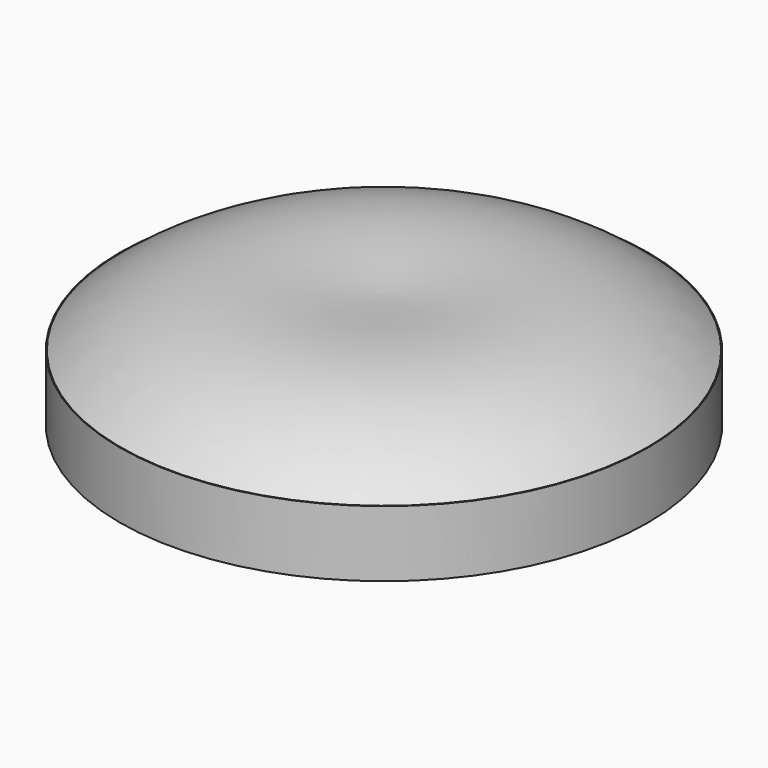
from build123d import *

# Parameters (mm, degrees)
SKETCH069_R     = 3
PAD040_DEPTH    = 0.5
SKETCH070_R     = 3
PAD041_DEPTH    = 1.5
SKETCH072_R     = 8
PAD049_DEPTH    = 2
SKETCH071_R     = 2
POCKET046_DEPTH = 4


with BuildPart() as part:
    # Sketch069 → Pad040 (new body)
    with BuildSketch(Plane.XY.offset(32)):
        with Locations((5.5, -22.5)):
            Circle(SKETCH069_R)
    extrude(amount=PAD040_DEPTH)

    # Sketch070 → Pad041 (join)
    with BuildSketch(Plane.XY.offset(32)):
        with Locations((5.5, -22.5)):
            Circle(SKETCH070_R)
    extrude(amount=-PAD041_DEPTH)

    # Sketch072 → Pad049 (join)
    with BuildSketch(Plane.XY.offset(32.5)):
        with Locations((5.5, -22.5)):
            Circle(SKETCH072_R)
    extrude(amount=PAD049_DEPTH)

    # Sketch094 → Revolution (revolve)
    with BuildSketch(Plane(origin=(5.5, -22.5, 18), x_dir=(1, 0, 0), z_dir=(0, -1, 0))):
        with BuildLine():
            Line((0, 18), (0, 16.48024))
            Line((0, 16.48024), (8, 16.48024))
            add(Edge.make_bspline(
                [(0, 18), (2, 18), (5, 19), (8, 16.48024)],
                knots=[0, 0, 0, 0, 1, 1, 1, 1], degree=3))
        make_face()
    revolve(axis=Axis((5.5, -22.5, 18), (0, 0, 1)))

    # Sketch071 (on Face4 of Pad041) → Pocket046 (cut)
    with BuildSketch(Plane(origin=(0, 0, 30.5), x_dir=(1, 0, 0), z_dir=(0, 0, -1))):
        with Locations((5.5, 22.5)):
            Circle(SKETCH071_R)
    extrude(amount=-POCKET046_DEPTH, mode=Mode.SUBTRACT)


solid = part.part
